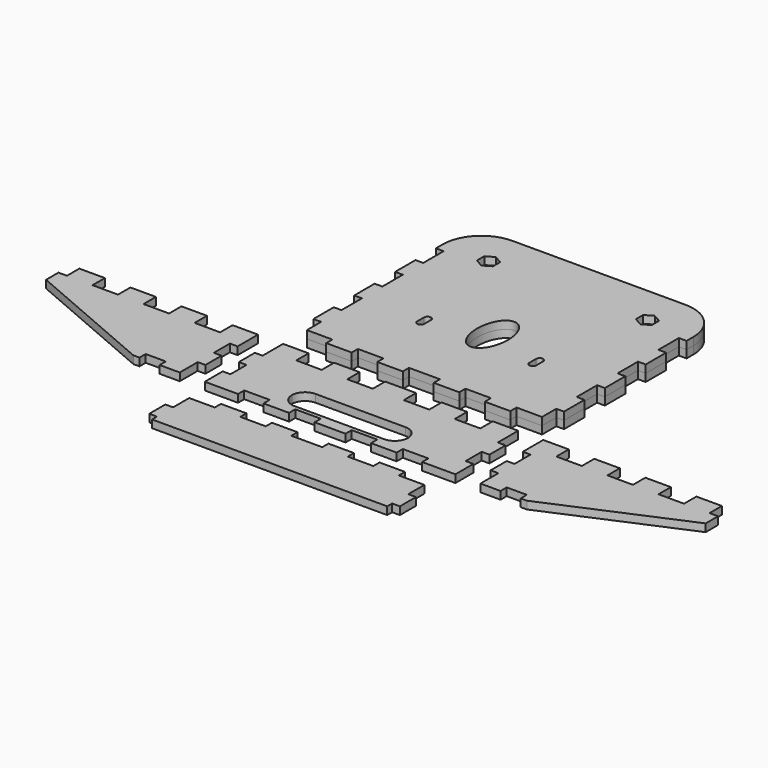
from build123d import *

# Parameters (mm, degrees)
F2_DEPTH = 5
F1_R     = 3.5
F3_DEPTH = 5


with BuildPart() as f2:
    # F1 (on Top) → F2 (new body)
    with BuildSketch(Plane.XY):
        Polygon((59.5, -47.3304475844), (59.5, -42.3304475844), (43, -42.3304475844), (43, -47.3304475844), (26.5, -47.3304475844), (26.5, -42.3304475844), (10, -42.3304475844), (10, -47.3304475844), (0, -47.3304475844), (-10, -47.3304475844), (-10, -42.3304475844), (-26.5, -42.3304475844), (-26.5, -47.3304475844), (-43, -47.3304475844), (-43, -42.3304475844), (-59.5, -42.3304475844), (-59.5, -47.3304475844), (-76, -47.3304475844), (-76, -60.3304475844), (-81, -60.3304475844), (-81, -73.3304475844), (-76, -73.3304475844), (-76, -77.3304475844), (0, -77.3304475844), (76, -77.3304475844), (76, -73.3304475844), (81, -73.3304475844), (81, -60.3304475844), (76, -60.3304475844), (76, -47.3304475844), align=None)
    extrude(amount=F2_DEPTH)


with BuildPart() as f2b:
    # F1 (on Top) → F2, piece 2 (new body)
    with BuildSketch(Plane.XY):
        Polygon((92.1677649021, -1), (92.1677649021, -14), (97.1677649021, -14), (97.1677649021, -28.5), (110.1677649021, -28.5), (110.1677649021, -23.5), (123.1677649021, -23.5), (123.1677649021, -28.5), (127.1677649021, -28.5), (213.1677649021, 8.5), (213.1677649021, 18.5), (207.6677649021, 18.5), (207.6677649021, 28.5), (191.1677649021, 28.5), (191.1677649021, 18.5), (174.6677649021, 18.5), (174.6677649021, 28.5), (158.1677649021, 28.5), (158.1677649021, 18.5), (141.6677649021, 18.5), (141.6677649021, 28.5), (125.1677649021, 28.5), (125.1677649021, 18.5), (108.6677649021, 18.5), (108.6677649021, 28.5), (92.1677649021, 28.5), (92.1677649021, 12), (97.1677649021, 12), (97.1677649021, -1), align=None)
    extrude(amount=F2_DEPTH)


with BuildPart() as f2c:
    # F1 (on Top) → F2, piece 3 (new body)
    with BuildSketch(Plane.XY):
        Polygon((76, 18.5), (76, 28.5), (59.5, 28.5), (59.5, 18.5), (43, 18.5), (43, 28.5), (26.5, 28.5), (26.5, 18.5), (10, 18.5), (10, 28.5), (0, 28.5), (-10, 28.5), (-10, 18.5), (-26.5, 18.5), (-26.5, 28.5), (-43, 28.5), (-43, 18.5), (-59.5, 18.5), (-59.5, 28.5), (-76, 28.5), (-76, 18.5), (-76, 12), (-81, 12), (-81, -1), (-76, -1), (-76, -14), (-81, -14), (-81, -28.5), (-59.5, -28.5), (-59.5, -23.5), (-43, -23.5), (-43, -28.5), (-26.5, -28.5), (-26.5, -23.5), (-10, -23.5), (-10, -28.5), (0, -28.5), (10, -28.5), (10, -23.5), (26.5, -23.5), (26.5, -28.5), (43, -28.5), (43, -23.5), (59.5, -23.5), (59.5, -28.5), (81, -28.5), (81, -14), (76, -14), (76, -1), (81, -1), (81, 12), (76, 12), align=None)
        with BuildLine():
            Line((29, -21), (0, -21))
            Line((0, -21), (-29, -21))
            ThreePointArc((-29, -21), (-35.0104076401, -18.5104076401), (-37.5, -12.5))
            ThreePointArc((-37.5, -12.5), (-35.0104076401, -6.4895923599), (-29, -4))
            Line((-29, -4), (0, -4))
            Line((0, -4), (29, -4))
            ThreePointArc((29, -4), (35.0104076401, -6.4895923599), (37.5, -12.5))
            ThreePointArc((37.5, -12.5), (35.0104076401, -18.5104076401), (29, -21))
        make_face(mode=Mode.SUBTRACT)
    extrude(amount=F2_DEPTH)


with BuildPart() as f2d:
    # F1 (on Top) → F2, piece 4 (new body)
    with BuildSketch(Plane.XY):
        Polygon((-92.1677649021, -1), (-97.1677649021, -1), (-97.1677649021, 12), (-92.1677649021, 12), (-92.1677649021, 28.5), (-108.6677649021, 28.5), (-108.6677649021, 18.5), (-125.1677649021, 18.5), (-125.1677649021, 28.5), (-141.6677649021, 28.5), (-141.6677649021, 18.5), (-158.1677649021, 18.5), (-158.1677649021, 28.5), (-174.6677649021, 28.5), (-174.6677649021, 18.5), (-191.1677649021, 18.5), (-191.1677649021, 28.5), (-207.6677649021, 28.5), (-207.6677649021, 18.5), (-213.1677649021, 18.5), (-213.1677649021, 8.5), (-127.1677649021, -28.5), (-123.1677649021, -28.5), (-123.1677649021, -23.5), (-110.1677649021, -23.5), (-110.1677649021, -28.5), (-97.1677649021, -28.5), (-97.1677649021, -14), (-92.1677649021, -14), align=None)
    extrude(amount=F2_DEPTH)


with BuildPart() as f2e:
    # F1 (on Top) → F2, piece 5 (new body)
    with BuildSketch(Plane.XY):
        with BuildLine():
            Line((43, 42.7474975586), (59.5, 42.7474975586))
            Line((59.5, 42.7474975586), (59.5, 47.7474975586))
            Line((59.5, 47.7474975586), (76, 47.7474975586))
            Line((76, 47.7474975586), (76, 59.2474975586))
            Line((76, 59.2474975586), (81, 59.2474975586))
            Line((81, 59.2474975586), (81, 75.7474975586))
            Line((81, 75.7474975586), (76, 75.7474975586))
            Line((76, 75.7474975586), (76, 92.2474975586))
            Line((76, 92.2474975586), (81, 92.2474975586))
            Line((81, 92.2474975586), (81, 108.7474975586))
            Line((81, 108.7474975586), (76, 108.7474975586))
            Line((76, 108.7474975586), (76, 125.2474975586))
            Line((76, 125.2474975586), (81, 125.2474975586))
            Line((81, 125.2474975586), (81, 141.7474975586))
            Line((81, 141.7474975586), (76, 141.7474975586))
            Line((76, 141.7474975586), (76, 158.2474975586))
            Line((76, 158.2474975586), (81, 158.2474975586))
            Line((81, 158.2474975586), (81, 163.747766614))
            ThreePointArc((81, 163.747766614), (73.6776695297, 181.4254361436), (56, 188.747766614))
            Line((56, 188.747766614), (0, 188.747766614))
            Line((0, 188.747766614), (-56, 188.747766614))
            ThreePointArc((-56, 188.747766614), (-73.6776695297, 181.4254361436), (-81, 163.747766614))
            Line((-81, 163.747766614), (-81, 158.2474975586))
            Line((-81, 158.2474975586), (-76, 158.2474975586))
            Line((-76, 158.2474975586), (-76, 141.7474975586))
            Line((-76, 141.7474975586), (-81, 141.7474975586))
            Line((-81, 141.7474975586), (-81, 125.2474975586))
            Line((-81, 125.2474975586), (-76, 125.2474975586))
            Line((-76, 125.2474975586), (-76, 108.7474975586))
            Line((-76, 108.7474975586), (-81, 108.7474975586))
            Line((-81, 108.7474975586), (-81, 92.2474975586))
            Line((-81, 92.2474975586), (-76, 92.2474975586))
            Line((-76, 92.2474975586), (-76, 75.7474975586))
            Line((-76, 75.7474975586), (-81, 75.7474975586))
            Line((-81, 75.7474975586), (-81, 59.2474975586))
            Line((-81, 59.2474975586), (-76, 59.2474975586))
            Line((-76, 59.2474975586), (-76, 47.7474975586))
            Line((-76, 47.7474975586), (-59.5, 47.7474975586))
            Line((-59.5, 47.7474975586), (-59.5, 42.7474975586))
            Line((-59.5, 42.7474975586), (-43, 42.7474975586))
            Line((-43, 42.7474975586), (-43, 47.7474975586))
            Line((-43, 47.7474975586), (-26.5, 47.7474975586))
            Line((-26.5, 47.7474975586), (-26.5, 42.7474975586))
            Line((-26.5, 42.7474975586), (-10, 42.7474975586))
            Line((-10, 42.7474975586), (-10, 47.7474975586))
            Line((-10, 47.7474975586), (0, 47.7474975586))
            Line((0, 47.7474975586), (10, 47.7474975586))
            Line((10, 47.7474975586), (10, 42.7474975586))
            Line((10, 42.7474975586), (26.5, 42.7474975586))
            Line((26.5, 42.7474975586), (26.5, 47.7474975586))
            Line((26.5, 47.7474975586), (43, 47.7474975586))
            Line((43, 47.7474975586), (43, 42.7474975586))
        make_face()
        with BuildLine():
            Line((-38.5, 89.9974975586), (-38.5, 95.4974975586))
            ThreePointArc((-38.5, 95.4974975586), (-37.8409902577, 97.0884878163), (-36.25, 97.7474975586))
            ThreePointArc((-36.25, 97.7474975586), (-34.6590097423, 97.0884878163), (-34, 95.4974975586))
            Line((-34, 95.4974975586), (-34, 89.9974975586))
            ThreePointArc((-34, 89.9974975586), (-34.6590097423, 88.4065073009), (-36.25, 87.7474975586))
            ThreePointArc((-36.25, 87.7474975586), (-37.8409902577, 88.4065073009), (-38.5, 89.9974975586))
        make_face(mode=Mode.SUBTRACT)
        with BuildLine():
            add(Edge.make_bspline(
                [(0, 85.2474975586), (17.3205080757, 85.2474975586), (8.6602540378, 111.4974975586), (0, 137.7474975586), (-8.6602540378, 111.4974975586), (-17.3205080757, 85.2474975586), (0, 85.2474975586)],
                knots=[0, 0, 0, 2.0943951024, 2.0943951024, 4.1887902048, 4.1887902048, 6.2831853072, 6.2831853072, 6.2831853072], degree=2, weights=[1, 0.5, 1, 0.5, 1, 0.5, 1]))
        make_face(mode=Mode.SUBTRACT)
        Polygon((-46.1990982294, 166.6818518192), (-46.1990982294, 160.8490318526), (-51.3602606952, 157.8442459926), (-56.521423161, 160.742980754), (-56.521423161, 166.717202263), (-51.3602606952, 169.6866379119), align=None, mode=Mode.SUBTRACT)
        with BuildLine():
            Line((38.5, 95.4974975586), (38.5, 89.9974975586))
            ThreePointArc((38.5, 89.9974975586), (37.8409902577, 88.4065073009), (36.25, 87.7474975586))
            ThreePointArc((36.25, 87.7474975586), (34.6590097423, 88.4065073009), (34, 89.9974975586))
            Line((34, 89.9974975586), (34, 95.4974975586))
            ThreePointArc((34, 95.4974975586), (34.6590097423, 97.0884878163), (36.25, 97.7474975586))
            ThreePointArc((36.25, 97.7474975586), (37.8409902577, 97.0884878163), (38.5, 95.4974975586))
        make_face(mode=Mode.SUBTRACT)
        Polygon((46.1990982294, 160.8490318526), (46.1990982294, 166.6818518192), (51.3602606952, 169.6866379119), (56.521423161, 166.717202263), (56.521423161, 160.742980754), (51.3602606952, 157.8442459926), align=None, mode=Mode.SUBTRACT)
    extrude(amount=F2_DEPTH)


with BuildPart() as f3:
    # F1 (on Top) → F3 (new body)
    with BuildSketch(Plane.XY):
        with BuildLine():
            Line((43, 42.7474975586), (59.5, 42.7474975586))
            Line((59.5, 42.7474975586), (59.5, 47.7474975586))
            Line((59.5, 47.7474975586), (76, 47.7474975586))
            Line((76, 47.7474975586), (76, 59.2474975586))
            Line((76, 59.2474975586), (81, 59.2474975586))
            Line((81, 59.2474975586), (81, 75.7474975586))
            Line((81, 75.7474975586), (76, 75.7474975586))
            Line((76, 75.7474975586), (76, 92.2474975586))
            Line((76, 92.2474975586), (81, 92.2474975586))
            Line((81, 92.2474975586), (81, 108.7474975586))
            Line((81, 108.7474975586), (76, 108.7474975586))
            Line((76, 108.7474975586), (76, 125.2474975586))
            Line((76, 125.2474975586), (81, 125.2474975586))
            Line((81, 125.2474975586), (81, 141.7474975586))
            Line((81, 141.7474975586), (76, 141.7474975586))
            Line((76, 141.7474975586), (76, 158.2474975586))
            Line((76, 158.2474975586), (81, 158.2474975586))
            Line((81, 158.2474975586), (81, 163.747766614))
            ThreePointArc((81, 163.747766614), (73.6776695297, 181.4254361436), (56, 188.747766614))
            Line((56, 188.747766614), (0, 188.747766614))
            Line((0, 188.747766614), (-56, 188.747766614))
            ThreePointArc((-56, 188.747766614), (-73.6776695297, 181.4254361436), (-81, 163.747766614))
            Line((-81, 163.747766614), (-81, 158.2474975586))
            Line((-81, 158.2474975586), (-76, 158.2474975586))
            Line((-76, 158.2474975586), (-76, 141.7474975586))
            Line((-76, 141.7474975586), (-81, 141.7474975586))
            Line((-81, 141.7474975586), (-81, 125.2474975586))
            Line((-81, 125.2474975586), (-76, 125.2474975586))
            Line((-76, 125.2474975586), (-76, 108.7474975586))
            Line((-76, 108.7474975586), (-81, 108.7474975586))
            Line((-81, 108.7474975586), (-81, 92.2474975586))
            Line((-81, 92.2474975586), (-76, 92.2474975586))
            Line((-76, 92.2474975586), (-76, 75.7474975586))
            Line((-76, 75.7474975586), (-81, 75.7474975586))
            Line((-81, 75.7474975586), (-81, 59.2474975586))
            Line((-81, 59.2474975586), (-76, 59.2474975586))
            Line((-76, 59.2474975586), (-76, 47.7474975586))
            Line((-76, 47.7474975586), (-59.5, 47.7474975586))
            Line((-59.5, 47.7474975586), (-59.5, 42.7474975586))
            Line((-59.5, 42.7474975586), (-43, 42.7474975586))
            Line((-43, 42.7474975586), (-43, 47.7474975586))
            Line((-43, 47.7474975586), (-26.5, 47.7474975586))
            Line((-26.5, 47.7474975586), (-26.5, 42.7474975586))
            Line((-26.5, 42.7474975586), (-10, 42.7474975586))
            Line((-10, 42.7474975586), (-10, 47.7474975586))
            Line((-10, 47.7474975586), (0, 47.7474975586))
            Line((0, 47.7474975586), (10, 47.7474975586))
            Line((10, 47.7474975586), (10, 42.7474975586))
            Line((10, 42.7474975586), (26.5, 42.7474975586))
            Line((26.5, 42.7474975586), (26.5, 47.7474975586))
            Line((26.5, 47.7474975586), (43, 47.7474975586))
            Line((43, 47.7474975586), (43, 42.7474975586))
        make_face()
        with BuildLine():
            Line((-38.5, 89.9974975586), (-38.5, 95.4974975586))
            ThreePointArc((-38.5, 95.4974975586), (-37.8409902577, 97.0884878163), (-36.25, 97.7474975586))
            ThreePointArc((-36.25, 97.7474975586), (-34.6590097423, 97.0884878163), (-34, 95.4974975586))
            Line((-34, 95.4974975586), (-34, 89.9974975586))
            ThreePointArc((-34, 89.9974975586), (-34.6590097423, 88.4065073009), (-36.25, 87.7474975586))
            ThreePointArc((-36.25, 87.7474975586), (-37.8409902577, 88.4065073009), (-38.5, 89.9974975586))
        make_face(mode=Mode.SUBTRACT)
        with BuildLine():
            add(Edge.make_bspline(
                [(0, 85.2474975586), (17.3205080757, 85.2474975586), (8.6602540378, 111.4974975586), (0, 137.7474975586), (-8.6602540378, 111.4974975586), (-17.3205080757, 85.2474975586), (0, 85.2474975586)],
                knots=[0, 0, 0, 2.0943951024, 2.0943951024, 4.1887902048, 4.1887902048, 6.2831853072, 6.2831853072, 6.2831853072], degree=2, weights=[1, 0.5, 1, 0.5, 1, 0.5, 1]))
        make_face(mode=Mode.SUBTRACT)
        Polygon((-46.1990982294, 166.6818518192), (-46.1990982294, 160.8490318526), (-51.3602606952, 157.8442459926), (-56.521423161, 160.742980754), (-56.521423161, 166.717202263), (-51.3602606952, 169.6866379119), align=None, mode=Mode.SUBTRACT)
        with BuildLine():
            Line((38.5, 95.4974975586), (38.5, 89.9974975586))
            ThreePointArc((38.5, 89.9974975586), (37.8409902577, 88.4065073009), (36.25, 87.7474975586))
            ThreePointArc((36.25, 87.7474975586), (34.6590097423, 88.4065073009), (34, 89.9974975586))
            Line((34, 89.9974975586), (34, 95.4974975586))
            ThreePointArc((34, 95.4974975586), (34.6590097423, 97.0884878163), (36.25, 97.7474975586))
            ThreePointArc((36.25, 97.7474975586), (37.8409902577, 97.0884878163), (38.5, 95.4974975586))
        make_face(mode=Mode.SUBTRACT)
        Polygon((46.1990982294, 160.8490318526), (46.1990982294, 166.6818518192), (51.3602606952, 169.6866379119), (56.521423161, 166.717202263), (56.521423161, 160.742980754), (51.3602606952, 157.8442459926), align=None, mode=Mode.SUBTRACT)
        Polygon((51.3602606952, 169.6866379119), (46.1990982294, 166.6818518192), (46.1990982294, 160.8490318526), (51.3602606952, 157.8442459926), (56.521423161, 160.742980754), (56.521423161, 166.717202263), align=None)
        with Locations((51.25, 163.747766614)):
            Circle(F1_R, mode=Mode.SUBTRACT)
        Polygon((-51.3602606952, 157.8442459926), (-46.1990982294, 160.8490318526), (-46.1990982294, 166.6818518192), (-51.3602606952, 169.6866379119), (-56.521423161, 166.717202263), (-56.521423161, 160.742980754), align=None)
        with Locations((-51.25, 163.747766614)):
            Circle(F1_R, mode=Mode.SUBTRACT)
    extrude(amount=-F3_DEPTH)


solid = Compound([f2.part, f2b.part, f2c.part, f2d.part, f2e.part, f3.part])
